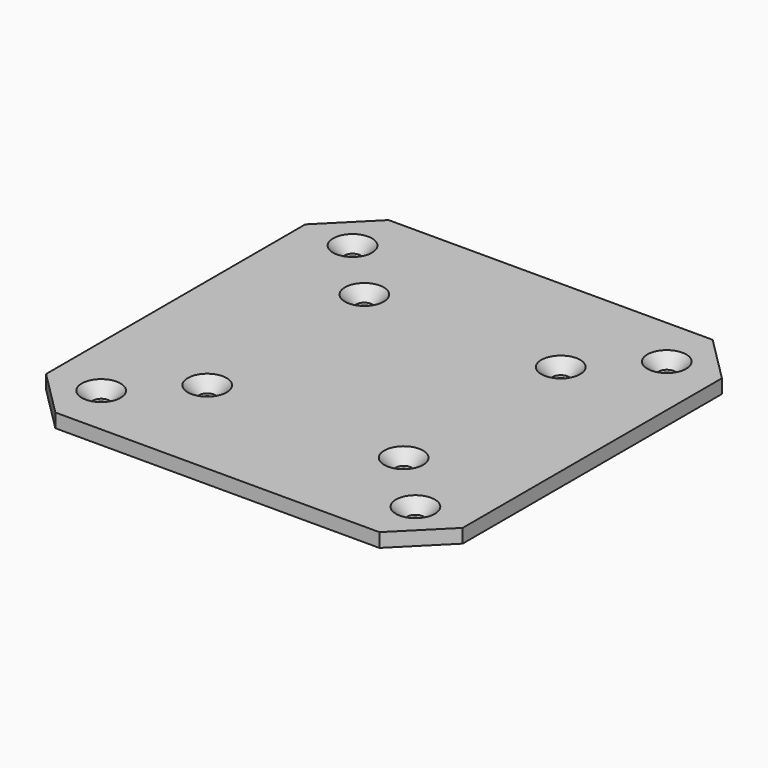
from build123d import *

# Parameters (mm, degrees)
F0_W           = 450
F0_H           = 450
F1_DEPTH       = 15
F3_D           = 17.5
F3_DEPTH       = 57.5
F3_CSINK_D     = 42
F3_CSINK_ANGLE = 90
F3_TIP         = 5.2575304165
F4_SIZE        = 50


with BuildPart() as f1:
    # F0 (on Top) → F1 (new body)
    with BuildSketch(Plane.XY):
        Rectangle(F0_W, F0_H)
    extrude(amount=F1_DEPTH)

    # F3
    with Locations(Plane.XY.offset(15)):
        with Locations((169.7056274848, 169.7056274848), (169.7056274848, -169.7056274848), (-169.7056274848, -169.7056274848), (-169.7056274848, 169.7056274848), (-106.066017178, 106.066017178), (106.066017178, 106.066017178), (106.066017178, -106.066017178), (-106.066017178, -106.066017178)):
            CounterSinkHole(F3_D / 2, F3_CSINK_D / 2, depth=F3_DEPTH, counter_sink_angle=F3_CSINK_ANGLE)
            with Locations((0, 0, -(F3_DEPTH + F3_TIP / 2))):  # 118° drill point
                Cone(0, F3_D / 2, F3_TIP, mode=Mode.SUBTRACT)

    # F4
    f4_edges = [f1.edges().sort_by_distance(p)[0] for p in [
        (225, -225, 7.5),
        (225, 225, 7.5),
        (-225, 225, 7.5),
        (-225, -225, 7.5),
    ]]
    chamfer(f4_edges, length=F4_SIZE)


solid = f1.part
